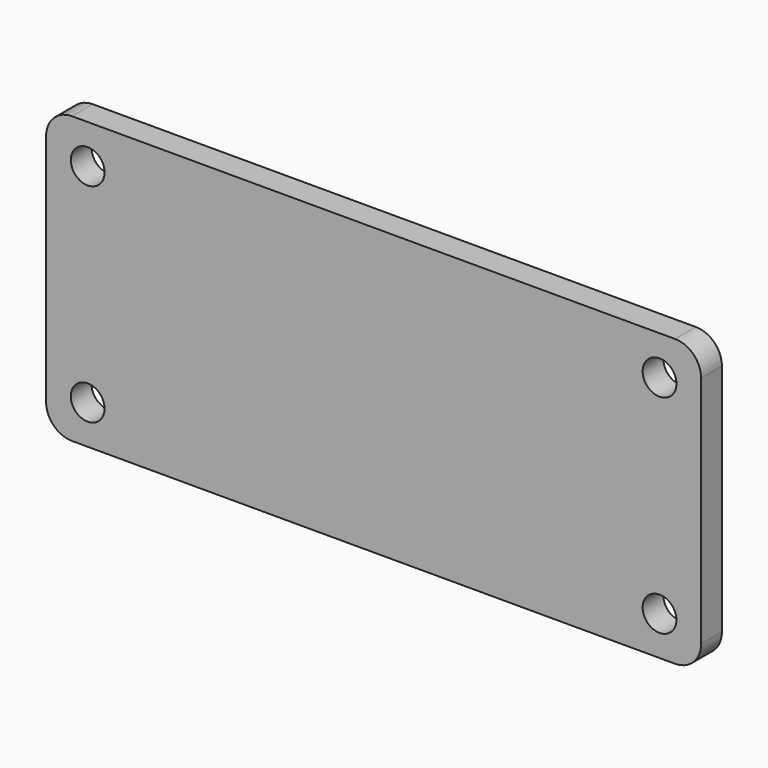
from build123d import *

# Parameters (mm, degrees)
F0_W     = 126
F0_H     = 55
F0_R     = 3.25
F1_DEPTH = 5
F2_R     = 5


with BuildPart() as f1:
    # F0 (on Front) → F1 (new body)
    with BuildSketch(Plane.XZ):
        Rectangle(F0_W, F0_H)
        with Locations((-55, -20)):
            Circle(F0_R, mode=Mode.SUBTRACT)
        with Locations((55, -20)):
            Circle(F0_R, mode=Mode.SUBTRACT)
        with Locations((-55, 20)):
            Circle(F0_R, mode=Mode.SUBTRACT)
        with Locations((55, 20)):
            Circle(F0_R, mode=Mode.SUBTRACT)
    extrude(amount=F1_DEPTH)

    # F2
    f2_edges = [f1.edges().sort_by_distance(p)[0] for p in [
        (63, -2.5, 27.5),
        (63, -2.5, -27.5),
        (-63, -2.5, 27.5),
        (-63, -2.5, -27.5),
    ]]
    fillet(f2_edges, radius=F2_R)


solid = f1.part
